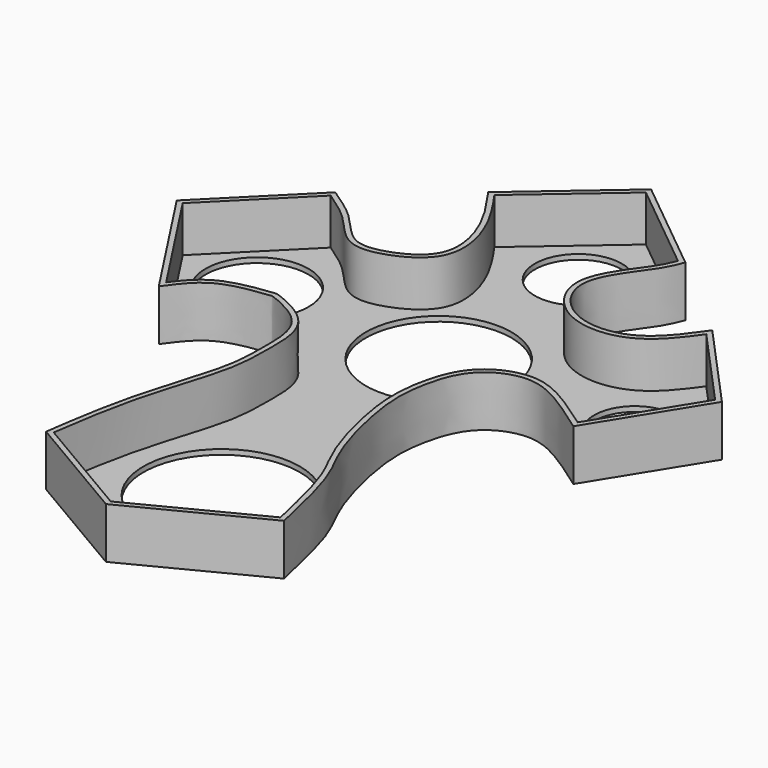
from build123d import *

# Parameters (mm, degrees)
F1_DEPTH  = 10
F2_T      = -1
F3_R      = 14.3148791302
F4_DEPTH  = 25.4
F5_R      = 8.5460000811
F6_DEPTH  = 25.4
F7_R      = 8.0042907552
F8_DEPTH  = 25.4
F9_R      = 15.363666468
F10_DEPTH = 25.4
F11_R     = 10.128351836
F12_DEPTH = 25.4


with BuildPart() as f1:
    # F0 (on Top) → F1 (new body)
    with BuildSketch(Plane.XY):
        with BuildLine():
            Line((2.2860858589, 56.6622838378), (-16.9823560864, 72.3383054137))
            Line((-16.9823560864, 72.3383054137), (-35.9242148697, 56.0091175139))
            add(Edge.make_bspline(
                [(-35.9242148697, 56.0091175139), (-33.571040035, 52.6674436005), (-29.1027506871, 46.322158188), (-27.1066638741, 34.9863467238), (-35.7762664475, 30.3704850508), (-42.3135605779, 29.8067541721), (-47.1668395114, 36.6345767697), (-51.8165720454, 39.7217897994), (-54.2129054666, 41.3128472865)],
                knots=[0, 0, 0, 0, 0.1975772658, 0.3751665109, 0.5396957684, 0.6771033845, 0.8335887181, 1, 1, 1, 1], degree=3))
            Line((-54.2129054666, 41.3128472865), (-71.5218409896, 24.0039080381))
            Line((-71.5218409896, 24.0039080381), (-55.845823139, 0))
            add(Edge.make_bspline(
                [(-55.845823139, 0), (-54.2569693765, 2.1090829466), (-51.0454639395, 7.0715791886), (-41.943007873, 8.1586918337), (-40.3954895475, 8.3551845002), (-40.1113904361, 8.3768810143), (-30.5799289737, 4.8247513191), (-30.7294833057, -5.7220355264), (-30.6882232078, -14.4728693723), (-36.650495159, -30.7187205373), (-38.3746188789, -42.8724940279), (-39.1900539398, -48.4976880252)],
                knots=[0, 0, 0, 0, 0.1170820974, 0.2355806573, 0.2801406245, 0.299360083, 0.415855699, 0.5417275917, 0.6616381033, 0.8276966426, 1, 1, 1, 1], degree=3))
            Line((-39.1900539398, -48.4976880252), (-16.9823560864, -61.5610405803))
            Line((-16.9823560864, -61.5610405803), (7.8380089253, -48.8242767751))
            add(Edge.make_bspline(
                [(7.8380089253, -48.8242767751), (6.4946327074, -42.8320118749), (4.1818131251, -32.5154472229), (-0.4465621154, -25.513652074), (-4.6143049979, -9.5173019394), (-4.0326831128, -0.2843685097), (-1.0715890247, 8.8317741189), (8.022294568, 12.5710961707), (15.8709509389, 8.4435269563), (20.5161506524, 5.1111713444), (22.8608641773, 3.4291297197)],
                knots=[0, 0, 0, 0, 0.1576622543, 0.2714387408, 0.4256620029, 0.5459660064, 0.6607194847, 0.7736291269, 0.8857369154, 1, 1, 1, 1], degree=3))
            Line((22.8608641773, 3.4291297197), (35.5976298451, 24.0039080381))
            Line((35.5976298451, 24.0039080381), (19.5950269699, 41.6394285858))
            add(Edge.make_bspline(
                [(19.5950269699, 41.6394285858), (17.114091882, 38.1173203694), (12.2703089657, 31.2407488336), (-0.7471215912, 30.9296512391), (-8.477355718, 41.8179397812), (0.3996130797, 51.8389265963), (1.7503857567, 55.2925991034), (2.2860858589, 56.6622838378)],
                knots=[0, 0, 0, 0, 0.2220035981, 0.4334402948, 0.6382628784, 0.8565394338, 1, 1, 1, 1], degree=3))
        make_face()
    extrude(amount=F1_DEPTH)

    # F2
    f2_openings = [f1.faces().sort_by_distance(p)[0] for p in [
        (-17.588795, 7.19807, 10),
    ]]
    offset(amount=F2_T, openings=f2_openings, kind=Kind.INTERSECTION)

    # F3 (on face) → F4 (cut)
    with BuildSketch(Plane.XY.offset(1)):
        with Locations((-18.0320851505, 21.4691348374)):
            Circle(F3_R)
    extrude(amount=-F4_DEPTH, mode=Mode.SUBTRACT)

    # F5 (on face) → F6 (cut)
    with BuildSketch(Plane.XY.offset(1)):
        with Locations((-17.7550800145, 55.428288877)):
            Circle(F5_R)
    extrude(amount=-F6_DEPTH, mode=Mode.SUBTRACT)

    # F7 (on face) → F8 (cut)
    with BuildSketch(Plane.XY.offset(1)):
        with Locations((20.2619452029, 21.8042768538)):
            Circle(F7_R)
    extrude(amount=-F8_DEPTH, mode=Mode.SUBTRACT)

    # F9 (on face) → F10 (cut)
    with BuildSketch(Plane.XY.offset(1)):
        with Locations((-15.7386213541, -34.6875190735)):
            Circle(F9_R)
    extrude(amount=-F10_DEPTH, mode=Mode.SUBTRACT)

    # F11 (on face) → F12 (cut)
    with BuildSketch(Plane.XY.offset(1)):
        with Locations((-54.5684583485, 22.5418414921)):
            Circle(F11_R)
    extrude(amount=-F12_DEPTH, mode=Mode.SUBTRACT)


solid = f1.part
